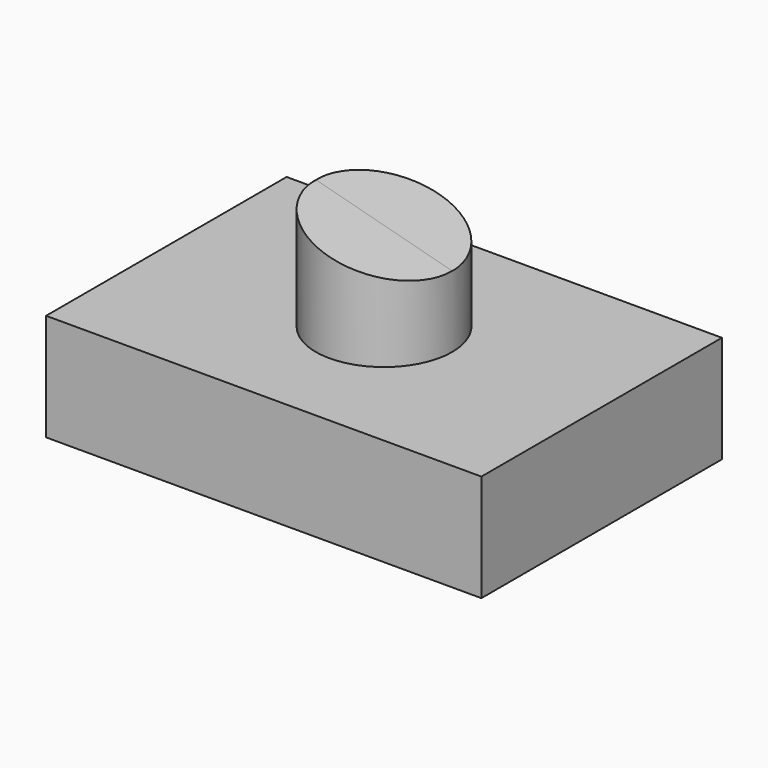
from build123d import *

# Parameters (mm, degrees)
F0_W     = 103.282116
F0_H     = 71.33352
F1_DEPTH = 25.4
F2_R     = 16.193149
F3_DEPTH = 25.4
F5_DEPTH = 25.4
F6_DEPTH = 25.4


with BuildPart() as f1:
    # F0 (on Top) → F1 (new body)
    with BuildSketch(Plane.XY):
        Rectangle(F0_W, F0_H)
    extrude(amount=F1_DEPTH)

    # F2 (on face) → F3 (join)
    with BuildSketch(Plane.XY.offset(25.4)):
        Circle(F2_R)
    extrude(amount=F3_DEPTH)

    # F4 (on Front) → F5 (cut)
    with BuildSketch(Plane.XZ):
        Polygon((16.517028, 50.868422), (-16.206576, 50.868422), (16.517028, 42.226627), align=None)
    extrude(amount=-F5_DEPTH, mode=Mode.SUBTRACT)

    # F5_face (on face) → F6 (cut)
    with BuildSketch(Plane(origin=(5.479605, 0, 47.97072), x_dir=(1, 0, 0), z_dir=(0, 1, 0))):
        Polygon((10.713545, 5.658561), (-21.42709, -2.82928), (10.713545, -2.82928), align=None)
    extrude(amount=-F6_DEPTH, mode=Mode.SUBTRACT)


solid = f1.part
